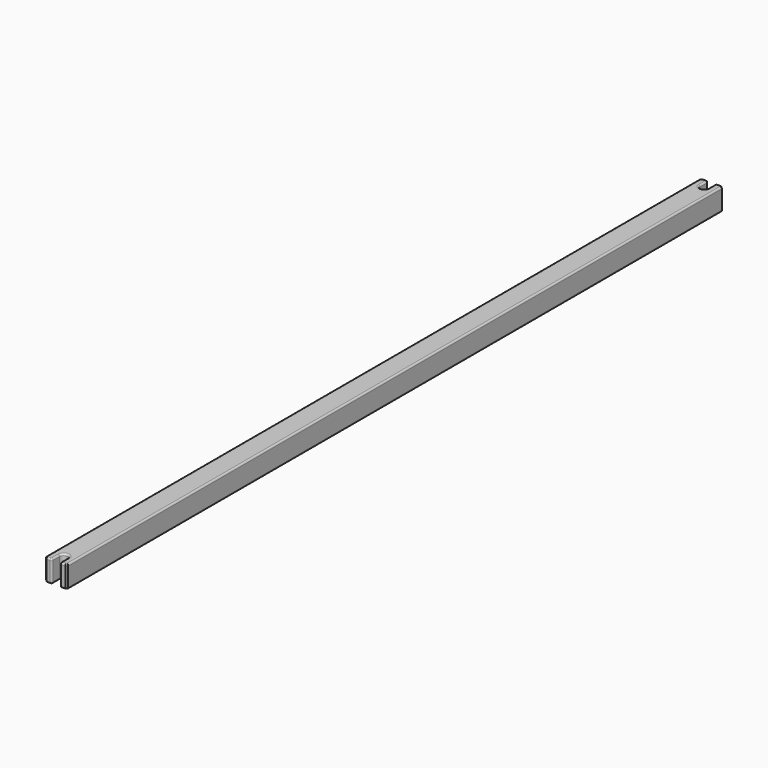
from build123d import *

# Parameters (mm, degrees)
F0_W     = 27
F0_H     = 27
F1_DEPTH = 500
F3_DEPTH = 27.001
F4_DEPTH = 27.001
F5_SIZE  = 2
F6_R     = 2


with BuildPart() as f1:
    # F0 (on Front) → F1 (new body, symmetric)
    with BuildSketch(Plane.XZ):
        with Locations((13.5, 13.5)):
            Rectangle(F0_W, F0_H)
    extrude(amount=F1_DEPTH, both=True)

    # F2 (on face) → F3 (cut, through all)
    with BuildSketch(Plane.XY.offset(27)):
        with BuildLine():
            Line((18.5, -500), (18.5, -488))
            ThreePointArc((18.5, -488), (13.5, -483), (8.5, -488))
            Line((8.5, -488), (8.5, -500))
            Line((8.5, -500), (18.5, -500))
        make_face()
    extrude(amount=-F3_DEPTH, mode=Mode.SUBTRACT)

    # F2 (on face) → F4 (cut, through all)
    with BuildSketch(Plane.XY.offset(27)):
        with BuildLine():
            Line((18.5, -500), (18.5, -488))
            ThreePointArc((18.5, -488), (13.5, -483), (8.5, -488))
            Line((8.5, -488), (8.5, -500))
            Line((8.5, -500), (18.5, -500))
        make_face()
        with BuildLine():
            ThreePointArc((8.5, 488), (13.5, 483), (18.5, 488))
            Line((18.5, 488), (18.5, 500))
            Line((18.5, 500), (8.5, 500))
            Line((8.5, 500), (8.5, 488))
        make_face()
    extrude(amount=-F4_DEPTH, mode=Mode.SUBTRACT)

    # F5
    f5_edges = [f1.edges().sort_by_distance(p)[0] for p in [
        (0, -500, 13.5),
        (27, -500, 13.5),
        (0, 500, 13.5),
        (27, 500, 13.5),
    ]]
    chamfer(f5_edges, length=F5_SIZE)

    # F6
    f6_edges = [f1.edges().sort_by_distance(p)[0] for p in [
        (21.75, -500, 27),
        (26, -499, 27),
        (18.5, -494, 27),
        (27, 0, 27),
        (13.5, -483, 27),
        (26, 499, 27),
        (8.5, -494, 27),
        (21.75, 500, 27),
        (5.25, -500, 27),
        (18.5, 494, 27),
        (1, -499, 27),
        (13.5, 483, 27),
        (0, 0, 27),
        (8.5, 494, 27),
        (1, 499, 27),
        (5.25, 500, 27),
        (0, 0, 0),
        (1, 499, 0),
        (1, -499, 0),
        (5.25, 500, 0),
        (5.25, -500, 0),
        (8.5, 494, 0),
        (8.5, -494, 0),
        (13.5, 483, 0),
        (13.5, -483, 0),
        (18.5, 494, 0),
        (18.5, -494, 0),
        (21.75, 500, 0),
        (21.75, -500, 0),
        (26, 499, 0),
        (26, -499, 0),
        (27, 0, 0),
        (18.5, 500, 13.5),
        (8.5, 500, 13.5),
        (18.5, -500, 13.5),
        (8.5, -500, 13.5),
    ]]
    fillet(f6_edges, radius=F6_R)


solid = f1.part
